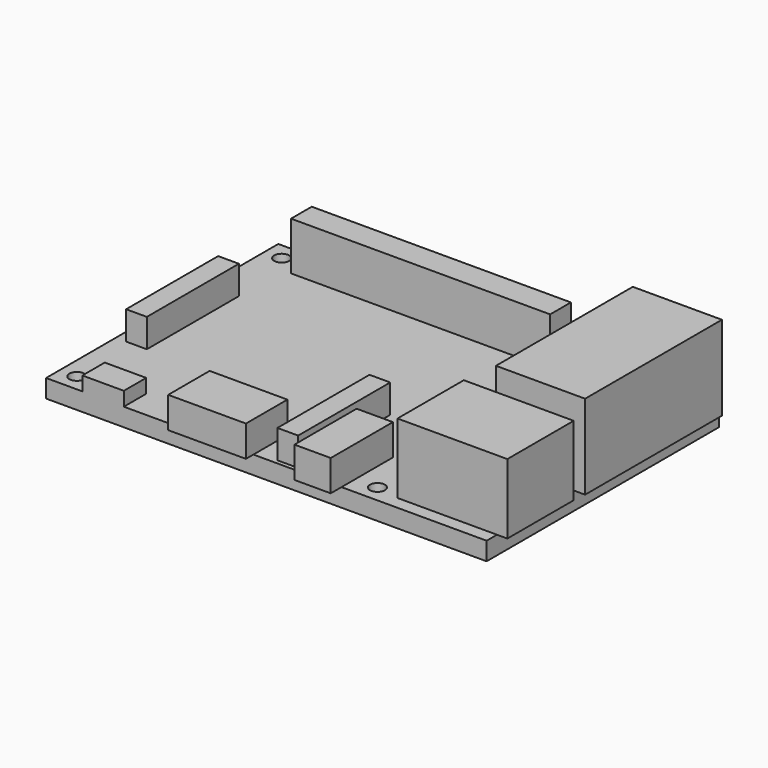
from build123d import *

# Parameters (mm, degrees)
F0_W     = 85
F0_H     = 56
F1_DEPTH = 3.5
F2_W     = 50
F2_H     = 5
F3_DEPTH = 9.3
F2_W_2   = 4
F2_H_2   = 22.2
F4_DEPTH = 5.5
F2_W_3   = 8
F2_H_3   = 5.4
F5_DEPTH = 2.7
F2_W_4   = 15
F2_H_4   = 1.8
F2_H_5   = 8.2
F6_DEPTH = 6
F2_W_5   = 7
F2_H_6   = 2.6
F2_H_7   = 12.4
F7_DEPTH = 6
F2_H_8   = 33
F2_W_6   = 2.2
F8_DEPTH = 16.3
F2_W_7   = 19.2
F2_H_9   = 16
F2_W_8   = 2
F9_DEPTH = 13.5
F10_D    = 2.9


with BuildPart() as f1:
    # F0 (on Top) → F1 (new body)
    with BuildSketch(Plane.XY):
        Rectangle(F0_W, F0_H)
    extrude(amount=F1_DEPTH)

    # F2 (on face) → F3 (join)
    with BuildSketch(Plane.XY.offset(3.5)):
        with Locations((-10, 24.2)):
            Rectangle(F2_W, F2_H)
    extrude(amount=F3_DEPTH)

    # F2 (on face) → F4 (join)
    with BuildSketch(Plane.XY.offset(3.5)):
        with Locations((-38.5, -0.1)):
            Rectangle(F2_W_2, F2_H_2)
        with Locations((3.5, -16.1)):
            Rectangle(F2_W_2, F2_H_2)
    extrude(amount=F4_DEPTH)

    # F2 (on face) → F5 (join)
    with BuildSketch(Plane.XY.offset(3.5)):
        with Locations((-31.5, -25.3)):
            Rectangle(F2_W_3, F2_H_3)
    extrude(amount=F5_DEPTH)

    # F2 (on face) → F6 (join)
    with BuildSketch(Plane.XY.offset(3.5)):
        with Locations((-10, -28.9)):
            Rectangle(F2_W_4, F2_H_4)
        with Locations((-10, -23.9)):
            Rectangle(F2_W_4, F2_H_5)
    extrude(amount=F6_DEPTH)

    # F2 (on face) → F7 (join)
    with BuildSketch(Plane.XY.offset(3.5)):
        with Locations((11, -29.3)):
            Rectangle(F2_W_5, F2_H_6)
        with Locations((11, -21.8)):
            Rectangle(F2_W_5, F2_H_7)
    extrude(amount=F7_DEPTH)

    # F2 (on face) → F8 (join)
    with BuildSketch(Plane.XY.offset(3.5)):
        with Locations((35, 9.5)):
            Rectangle(F2_W_4, F2_H_8)
        with Locations((43.6, 9.5)):
            Rectangle(F2_W_6, F2_H_8)
    extrude(amount=F8_DEPTH)

    # F2 (on face) → F9 (join)
    with BuildSketch(Plane.XY.offset(3.5)):
        with Locations((32.9, -17.5)):
            Rectangle(F2_W_7, F2_H_9)
        with Locations((43.5, -17.5)):
            Rectangle(F2_W_8, F2_H_9)
    extrude(amount=F9_DEPTH)

    # F10 (through all)
    with Locations(Plane(origin=(0, 0, 0), x_dir=(1, 0, 0), z_dir=(0, 0, -1))):
        with Locations((18.8, 24.7), (-39.2, 24.7), (-39.2, -24.7), (18.8, -24.7)):
            Hole(F10_D / 2)


solid = f1.part
